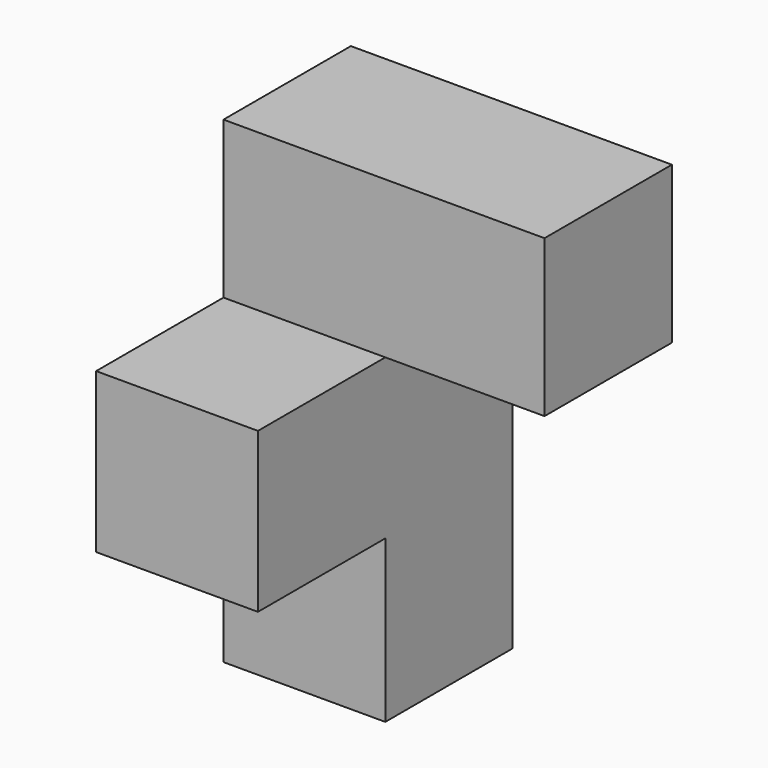
from build123d import *

# Parameters (mm, degrees)
F0_W     = 19.36434
F0_H     = 19.05
F1_DEPTH = 57.15
F2_W     = 19.36434
F2_H     = 19.065039
F3_DEPTH = 19.05
F4_W     = 19.05
F4_H     = 18.74761
F5_DEPTH = 19.05


with BuildPart() as f1:
    # F0 (on Top) → F1 (new body)
    with BuildSketch(Plane.XY):
        with Locations((-28.756759, -28.575)):
            Rectangle(F0_W, F0_H)
    extrude(amount=F1_DEPTH)

    # F2 (on face) → F3 (join)
    with BuildSketch(Plane.XZ.offset(38.1)):
        with Locations((-28.756759, 28.86987)):
            Rectangle(F2_W, F2_H)
    extrude(amount=F3_DEPTH)

    # F4 (on face) → F5 (join)
    with BuildSketch(Plane.YZ.offset(-19.074589)):
        with Locations((-28.575, 47.776195)):
            Rectangle(F4_W, F4_H)
    extrude(amount=F5_DEPTH)


solid = f1.part
